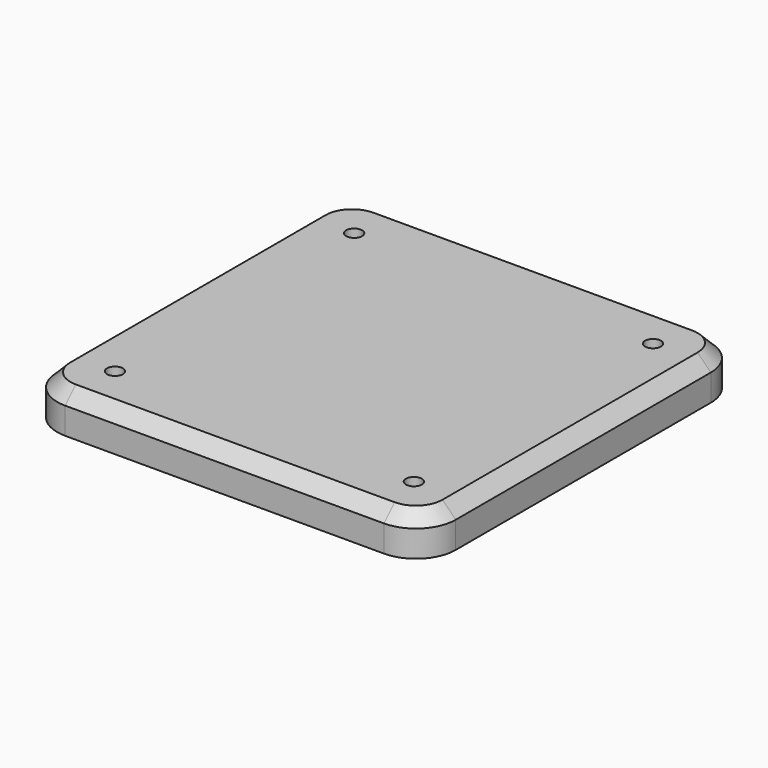
from build123d import *

# Parameters (mm, degrees)
F0_W     = 300
F0_H     = 300
F1_DEPTH = 30
F3_R     = 30
F4_SIZE  = 10
F5_D     = 12
F5_DEPTH = 10
F5_TIP   = 3.6051637142
F7_D     = 12
F7_DEPTH = 10
F7_TIP   = 3.6051637142


with BuildPart() as f1:
    # F0 (on Top) → F1 (new body)
    with BuildSketch(Plane.XY):
        Rectangle(F0_W, F0_H)
    extrude(amount=F1_DEPTH)

    # F3
    f3_edges = [f1.edges().sort_by_distance(p)[0] for p in [
        (-150, 150, 15),
        (150, 150, 15),
        (-150, -150, 15),
        (150, -150, 15),
    ]]
    fillet(f3_edges, radius=F3_R)

    # F4
    f4_edges = [f1.edges().sort_by_distance(p)[0] for p in [
        (0, 150, 30),
    ]]
    chamfer(f4_edges, length=F4_SIZE)

    # F5
    with Locations(Plane.XY.offset(30)):
        with Locations((112.5, -112.5), (112.5, 112.5), (-112.5, 112.5), (-112.5, -112.5)):
            Hole(F5_D / 2, depth=F5_DEPTH)
            with Locations((0, 0, -(F5_DEPTH + F5_TIP / 2))):  # 118° drill point
                Cone(0, F5_D / 2, F5_TIP, mode=Mode.SUBTRACT)

    # F7
    with Locations(Plane(origin=(0, 0, 0), x_dir=(1, 0, 0), z_dir=(0, 0, -1))):
        with Locations((-125, 125), (-125, -125), (125, -125), (125, 125)):
            Hole(F7_D / 2, depth=F7_DEPTH)
            with Locations((0, 0, -(F7_DEPTH + F7_TIP / 2))):  # 118° drill point
                Cone(0, F7_D / 2, F7_TIP, mode=Mode.SUBTRACT)


solid = f1.part
